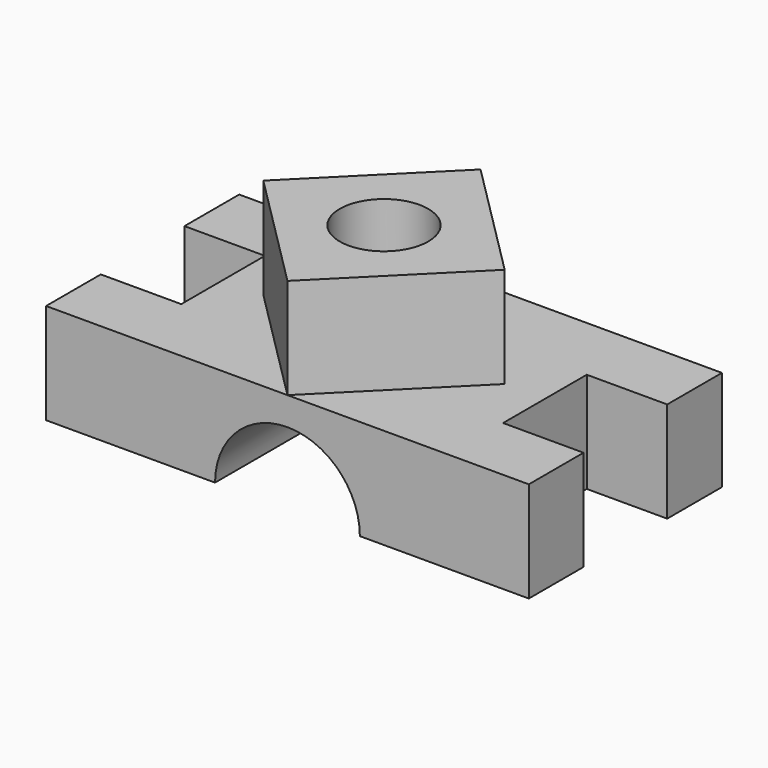
from build123d import *

# Parameters (mm, degrees)
F1_DEPTH  = 600
F2_W      = 400
F2_H      = 260
F3_DEPTH  = 250.001
F5_DEPTH  = 250.001
F4_W      = 400
F4_H      = 260
F6_DEPTH  = 250.001
F8_DEPTH  = 250
F10_DEPTH = 250
F12_DEPTH = 250
F14_DEPTH = 250
F15_R     = 110
F16_DEPTH = 500.001


with BuildPart() as f1:
    # F0 (on Front) → F1 (new body)
    with BuildSketch(Plane.XZ):
        with BuildLine():
            Line((-600, 125), (-600, -125))
            Line((-600, -125), (-180, -125))
            ThreePointArc((-180, -125), (0, 55), (180, -125))
            Line((180, -125), (600, -125))
            Line((600, -125), (600, 125))
            Line((600, 125), (300, 125))
            Line((300, 125), (300, 375))
            Line((300, 375), (-300, 375))
            Line((-300, 375), (-300, 125))
            Line((-300, 125), (-600, 125))
        make_face()
    extrude(amount=F1_DEPTH)

    # F2 (on face) → F3 (cut, through all)
    with BuildSketch(Plane.XY.offset(125)):
        with Locations((600, -300)):
            Rectangle(F2_W, F2_H)
    extrude(amount=-F3_DEPTH, mode=Mode.SUBTRACT)

    # F2 (on face) → F5 (cut, through all)
    with BuildSketch(Plane.XY.offset(125)):
        with Locations((600, -300)):
            Rectangle(F2_W, F2_H)
    extrude(amount=-F5_DEPTH, mode=Mode.SUBTRACT)

    # F4 (on face) → F6 (cut, through all)
    with BuildSketch(Plane.XY.offset(125)):
        with Locations((-600, -300)):
            Rectangle(F4_W, F4_H)
    extrude(amount=-F6_DEPTH, mode=Mode.SUBTRACT)

    # F7 (on face) → F8 (cut)
    with BuildSketch(Plane.XY.offset(375)):
        Polygon((300, -300), (0, -600), (300, -600), align=None)
    extrude(amount=-F8_DEPTH, mode=Mode.SUBTRACT)

    # F9 (on face) → F10 (cut)
    with BuildSketch(Plane.XY.offset(375)):
        Polygon((-300, -600), (0, -600), (-300, -300), align=None)
    extrude(amount=-F10_DEPTH, mode=Mode.SUBTRACT)

    # F11 (on face) → F12 (cut)
    with BuildSketch(Plane.XY.offset(375)):
        Polygon((300, -300), (300, 0), (0, 0), align=None)
    extrude(amount=-F12_DEPTH, mode=Mode.SUBTRACT)

    # F13 (on face) → F14 (cut)
    with BuildSketch(Plane.XY.offset(375)):
        Polygon((0, 0), (-300, 0), (-300, -300), align=None)
    extrude(amount=-F14_DEPTH, mode=Mode.SUBTRACT)

    # F15 (on face) → F16 (cut, through all)
    with BuildSketch(Plane.XY.offset(375)):
        with Locations((0, -300)):
            Circle(F15_R)
    extrude(amount=-F16_DEPTH, mode=Mode.SUBTRACT)


solid = f1.part
